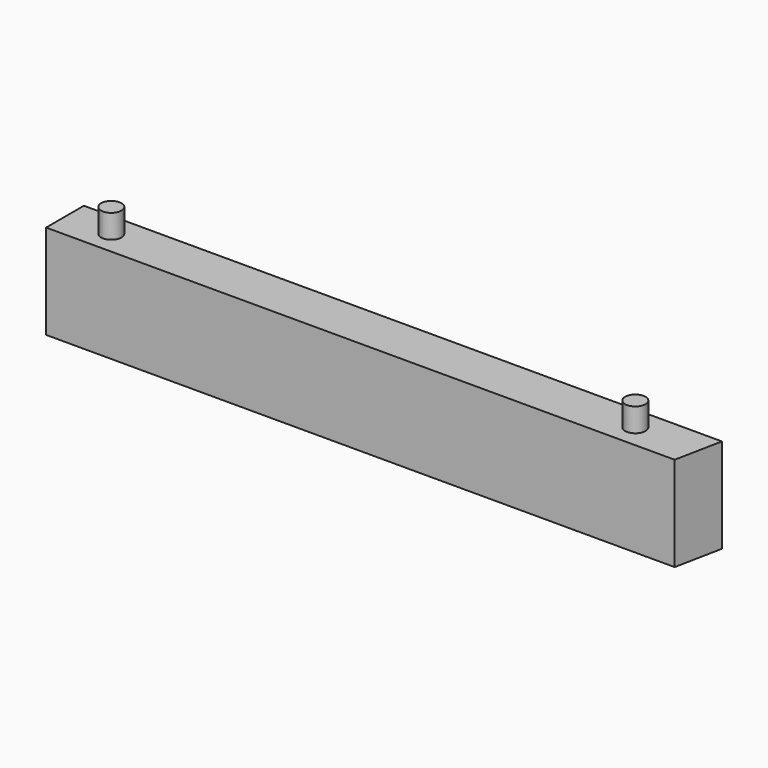
from build123d import *

# Parameters (mm, degrees)
F1_DEPTH = 20
F2_R     = 2.15
F3_DEPTH = 5


with BuildPart() as f1:
    # F0 (on Top) → F1 (new body)
    with BuildSketch(Plane.XY):
        Polygon((67.72012, 44.727185), (-67.27988, 44.727185), (-67.27988, 34.727185), (65.72012, 34.727185), align=None)
    extrude(amount=F1_DEPTH)

    # F2 (on face) → F3 (join)
    with BuildSketch(Plane.XY.offset(20)):
        with Locations((-57.483789, 39.727185)):
            Circle(F2_R)
        with Locations((53.397704, 39.727185)):
            Circle(F2_R)
    extrude(amount=F3_DEPTH)


solid = f1.part
